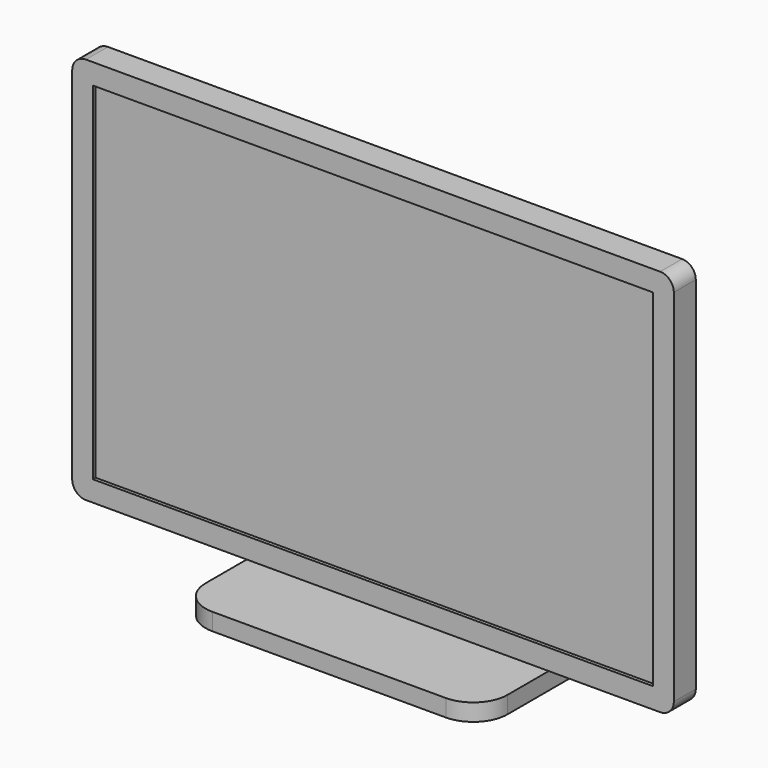
from build123d import *

# Parameters (mm, degrees)
F0_W      = 518.439682
F0_H      = 320.675
F1_DEPTH  = 25.4
F2_DEPTH  = 22.225
F3_W      = 101.6
F3_H      = 101.6
F4_DEPTH  = 12.7
F6_DEPTH  = 38.1
F7_W      = 184.15
F7_H      = 15.875
F8_DEPTH  = 101.6
F9_W      = 184.15
F9_H      = 15.875
F10_DEPTH = 101.6
F11_R     = 31.75


with BuildPart() as f1:
    # F0 (on Front) → F1 (new body)
    with BuildSketch(Plane.XZ):
        with BuildLine():
            Line((278.269841, -166.6875), (278.269841, 166.6875))
            ThreePointArc((278.269841, 166.6875), (274.550097, 175.667756), (265.569841, 179.3875))
            Line((265.569841, 179.3875), (-265.569841, 179.3875))
            ThreePointArc((-265.569841, 179.3875), (-274.550097, 175.667756), (-278.269841, 166.6875))
            Line((-278.269841, 166.6875), (-278.269841, -166.6875))
            ThreePointArc((-278.269841, -166.6875), (-274.550097, -175.667756), (-265.569841, -179.3875))
            Line((-265.569841, -179.3875), (265.569841, -179.3875))
            ThreePointArc((265.569841, -179.3875), (274.550097, -175.667756), (278.269841, -166.6875))
        make_face()
        Rectangle(F0_W, F0_H, mode=Mode.SUBTRACT)
    extrude(amount=F1_DEPTH)

    # F0 (on Front) → F2 (join)
    with BuildSketch(Plane.XZ):
        Rectangle(F0_W, F0_H)
    extrude(amount=F2_DEPTH)

    # F3 (on face) → F4 (join)
    with BuildSketch(Plane.XZ):
        Rectangle(F3_W, F3_H)
    extrude(amount=-F4_DEPTH)

    # F5 (on Right) → F6 (join, symmetric)
    with BuildSketch(Plane.YZ):
        Polygon((12.7, 31.75), (12.7, -31.75), (27.283267, -198.4375), (-76.2, -198.4375), (-76.2, -214.3125), (107.95, -214.3125), (107.95, -198.4375), (57.15, -198.4375), align=None)
    extrude(amount=F6_DEPTH, both=True)

    # F7 (on face) → F8 (join)
    with BuildSketch(Plane.YZ.offset(38.1)):
        with Locations((15.875, -206.375)):
            Rectangle(F7_W, F7_H)
    extrude(amount=F8_DEPTH)

    # F9 (on face) → F10 (join)
    with BuildSketch(Plane(origin=(-38.1, 0, 0), x_dir=(0, -1, 0), z_dir=(-1, 0, 0))):
        with Locations((-15.875, -206.375)):
            Rectangle(F9_W, F9_H)
    extrude(amount=F10_DEPTH)

    # F11
    f11_edges = [f1.edges().sort_by_distance(p)[0] for p in [
        (-139.7, 107.95, -206.375),
        (139.7, 107.95, -206.375),
        (139.7, -76.2, -206.375),
        (-139.7, -76.2, -206.375),
    ]]
    fillet(f11_edges, radius=F11_R)


solid = f1.part
